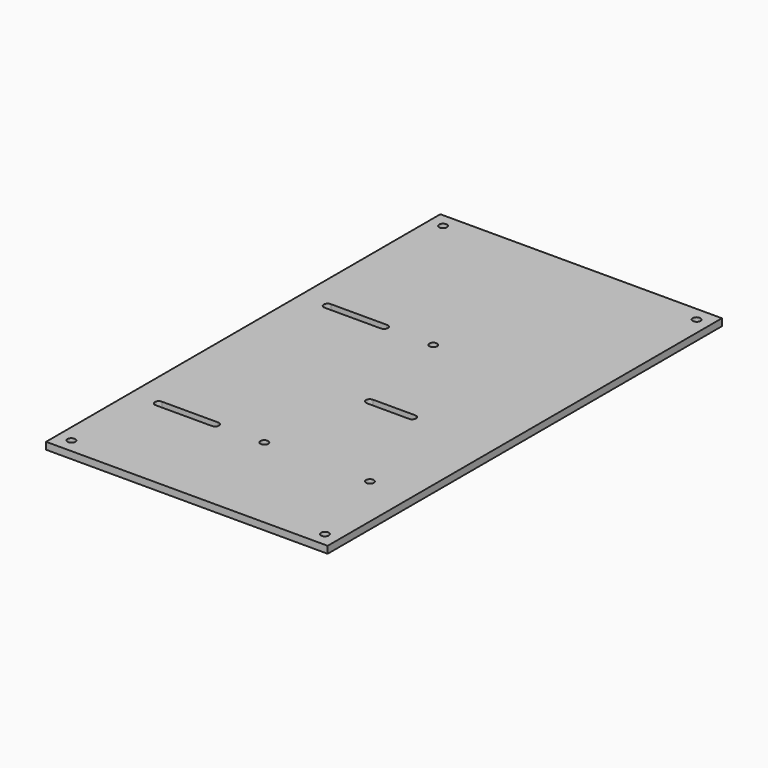
from build123d import *

# Parameters (mm, degrees)
F0_W     = 200
F0_H     = 350
F0_R     = 2.75
F1_DEPTH = 5


with BuildPart() as f1:
    # F0 (on Top) → F1 (new body)
    with BuildSketch(Plane.XY):
        Rectangle(F0_W, F0_H)
        with Locations((-90, -165)):
            Circle(F0_R, mode=Mode.SUBTRACT)
        with BuildLine():
            ThreePointArc((-80, -102.75), (-82.75, -100), (-80, -97.25))
            Line((-80, -97.25), (-60, -97.25))
            Line((-60, -97.25), (-40, -97.25))
            ThreePointArc((-40, -97.25), (-37.25, -100), (-40, -102.75))
            Line((-40, -102.75), (-60, -102.75))
            Line((-60, -102.75), (-80, -102.75))
        make_face(mode=Mode.SUBTRACT)
        with Locations((-5, -100)):
            Circle(F0_R, mode=Mode.SUBTRACT)
        with Locations((90, -165)):
            Circle(F0_R, mode=Mode.SUBTRACT)
        with Locations((70, -100)):
            Circle(F0_R, mode=Mode.SUBTRACT)
        with BuildLine():
            ThreePointArc((40, -22.25), (42.75, -25), (40, -27.75))
            Line((40, -27.75), (25, -27.75))
            Line((25, -27.75), (10, -27.75))
            ThreePointArc((10, -27.75), (7.25, -25), (10, -22.25))
            Line((10, -22.25), (25, -22.25))
            Line((25, -22.25), (40, -22.25))
        make_face(mode=Mode.SUBTRACT)
        with BuildLine():
            ThreePointArc((-40, 52.75), (-37.25, 50), (-40, 47.25))
            Line((-40, 47.25), (-60, 47.25))
            Line((-60, 47.25), (-80, 47.25))
            ThreePointArc((-80, 47.25), (-82.75, 50), (-80, 52.75))
            Line((-80, 52.75), (-60, 52.75))
            Line((-60, 52.75), (-40, 52.75))
        make_face(mode=Mode.SUBTRACT)
        with Locations((-5, 50)):
            Circle(F0_R, mode=Mode.SUBTRACT)
        with Locations((-90, 165)):
            Circle(F0_R, mode=Mode.SUBTRACT)
        with Locations((90, 165)):
            Circle(F0_R, mode=Mode.SUBTRACT)
    extrude(amount=F1_DEPTH)


solid = f1.part
